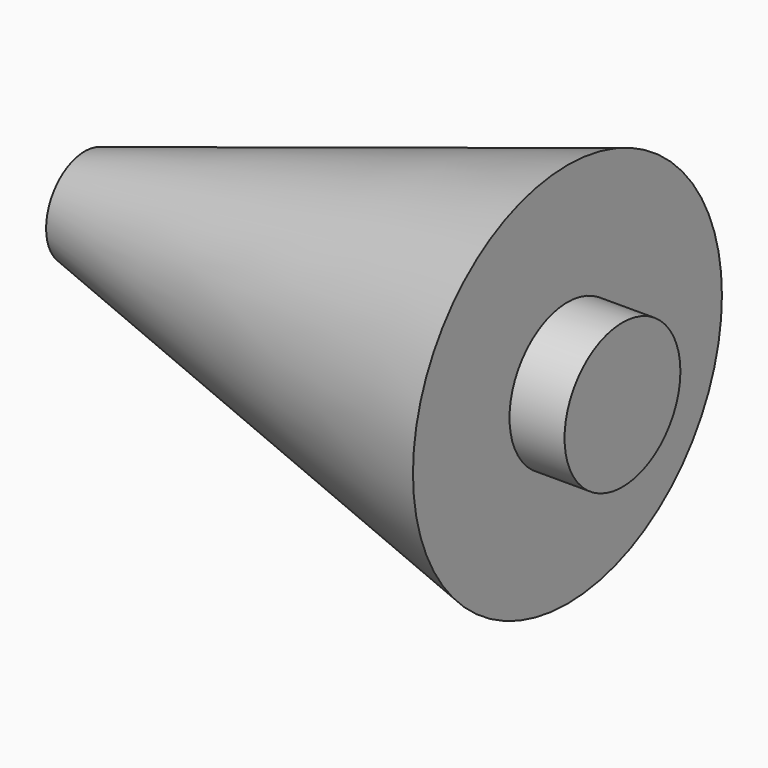
from build123d import *

# Parameters (mm, degrees)
F3_R     = 38.1
F4_DEPTH = 28.956


with BuildPart() as f2:
    # F1 (on Top) → F2 (revolve)
    with BuildSketch(Plane.XY):
        Polygon((0, -101.6), (0, 0), (-254, 0), (-254, -25.4), align=None)
    revolve(axis=Axis((-127, 0, 0), (-1, 0, 0)))

    # F3 (on face) → F4 (join)
    with BuildSketch(Plane.YZ):
        Circle(F3_R)
    extrude(amount=F4_DEPTH)


solid = f2.part
